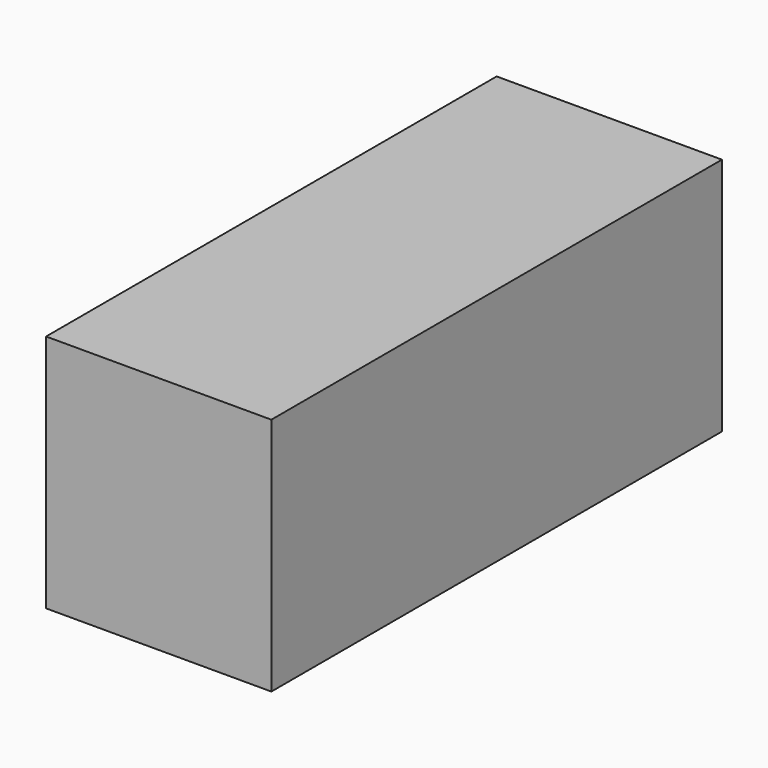
from build123d import *

# Parameters (mm, degrees)
F0_W     = 2438.4
F0_H     = 2590.8
F1_DEPTH = 6096


with BuildPart() as f1:
    # F0 (on Front) → F1 (new body)
    with BuildSketch(Plane.XZ):
        Rectangle(F0_W, F0_H)
        Polygon((-562.563002, -1193.341292), (-562.563002, 635.458708), (0, 635.458708), (562.563002, 635.458708), (562.563002, -1193.341292), (0, -1193.341292), align=None, mode=Mode.SUBTRACT)
        Polygon((0, 635.458708), (-562.563002, 635.458708), (-562.563002, -1193.341292), (0, -1193.341292), (562.563002, -1193.341292), (562.563002, 635.458708), align=None)
    extrude(amount=F1_DEPTH)


solid = f1.part
